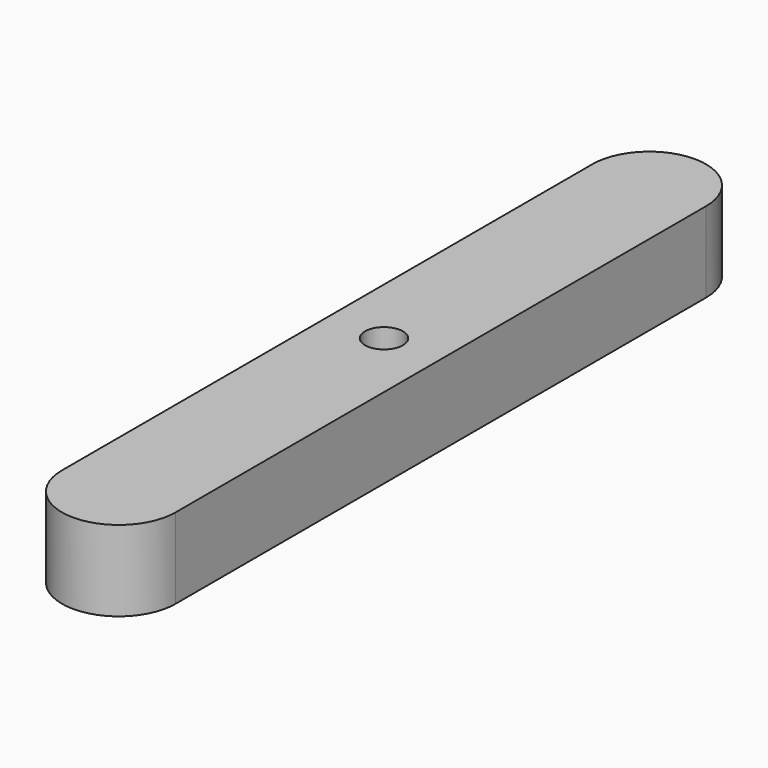
from build123d import *

# Parameters (mm, degrees)
F1_DEPTH = 8.5
F2_R     = 2
F3_DEPTH = 25


with BuildPart() as f1:
    # F0 (on Top) → F1 (new body)
    with BuildSketch(Plane.XY):
        with BuildLine():
            ThreePointArc((-44.496713, 35.444079), (-50.496713, 41.444079), (-56.496713, 35.444079))
            Line((-56.496713, 35.444079), (-56.496713, -34.555921))
            ThreePointArc((-56.496713, -34.555921), (-50.496713, -40.555921), (-44.496713, -34.555921))
            Line((-44.496713, -34.555921), (-44.496713, 35.444079))
        make_face()
    extrude(amount=F1_DEPTH)

    # F2 (on face) → F3 (cut)
    with BuildSketch(Plane.XY.offset(8.5)):
        with Locations((-50.496713, 0.444079)):
            Circle(F2_R)
    extrude(amount=-F3_DEPTH, mode=Mode.SUBTRACT)


solid = f1.part
